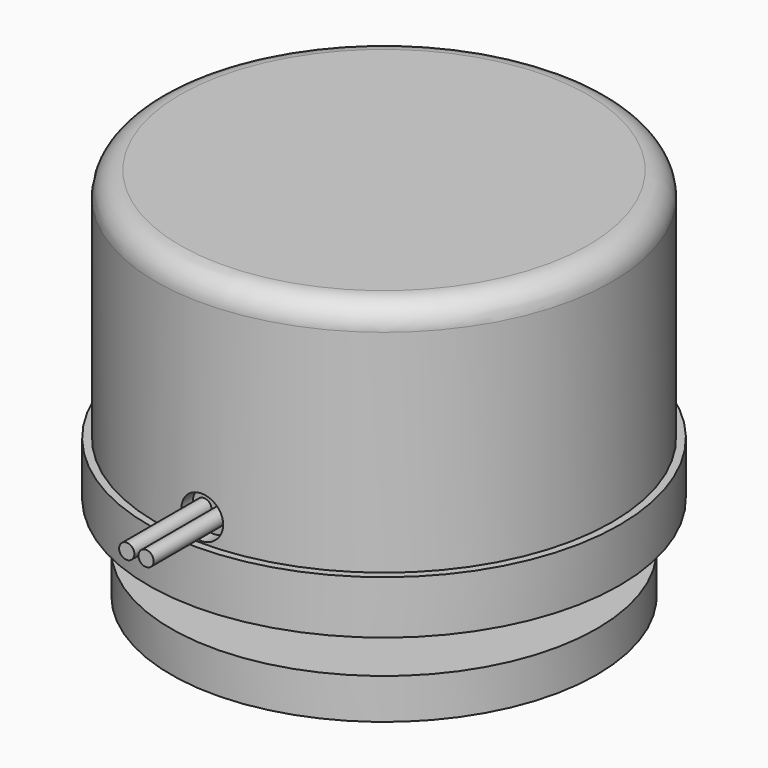
from build123d import *

# Parameters (mm, degrees)
F0_R      = 15
F1_DEPTH  = 19
F2_R      = 1.5875
F3_R      = 15.5
F3_R_2    = 15
F4_DEPTH  = 3.5
F5_R      = 14.5
F6_DEPTH  = 2
F8_DEPTH  = 3
F9_R      = 5.75
F10_DEPTH = 2
F11_R     = 14
F11_R_2   = 5.75
F12_DEPTH = 2.66
F14_START = 14
F13_R     = 1.375
F14_DEPTH = 11.4
F15_R     = 0.5
F16_DEPTH = 6.35


with BuildPart() as f1:
    # F0 (on Top) → F1 (new body)
    with BuildSketch(Plane.XY):
        Circle(F0_R)
    extrude(amount=F1_DEPTH)

    # F2
    f2_edges = [f1.edges().sort_by_distance(p)[0] for p in [
        (-15, 0, 19),
    ]]
    fillet(f2_edges, radius=F2_R)

    # F3 (on face) → F4 (join)
    with BuildSketch(Plane(origin=(0, 0, 0), x_dir=(1, 0, 0), z_dir=(0, 0, -1))):
        Circle(F3_R)
        Circle(F3_R_2, mode=Mode.SUBTRACT)
    extrude(amount=-F4_DEPTH)

    # F5 (on face) → F6 (cut)
    with BuildSketch(Plane(origin=(0, 0, 0), x_dir=(1, 0, 0), z_dir=(0, 0, -1))):
        Circle(F5_R)
    extrude(amount=-F6_DEPTH, mode=Mode.SUBTRACT)

    # F7 (on face) → F8 (join)
    with BuildSketch(Plane(origin=(0, 0, 2), x_dir=(1, 0, 0), z_dir=(0, 0, -1))):
        Polygon((0, 4.4744645862), (-3.875, 2.2372322931), (-3.875, -2.2372322931), (0, -4.4744645862), (3.875, -2.2372322931), (3.875, 2.2372322931), align=None)
    extrude(amount=F8_DEPTH)

    # F9 (on face) → F10 (join)
    with BuildSketch(Plane(origin=(0, 0, -1), x_dir=(1, 0, 0), z_dir=(0, 0, -1))):
        Circle(F9_R)
        Polygon((-3.875, 2.2372322931), (0, 4.4744645862), (3.875, 2.2372322931), (3.875, -2.2372322931), (0, -4.4744645862), (-3.875, -2.2372322931), align=None, mode=Mode.SUBTRACT)
        Polygon((3.875, 2.2372322931), (0, 4.4744645862), (-3.875, 2.2372322931), (-3.875, -2.2372322931), (0, -4.4744645862), (3.875, -2.2372322931), align=None)
    extrude(amount=F10_DEPTH)

    # F11 (on face) → F12 (join)
    with BuildSketch(Plane(origin=(0, 0, -3), x_dir=(1, 0, 0), z_dir=(0, 0, -1))):
        Circle(F11_R)
        Circle(F11_R_2, mode=Mode.SUBTRACT)
        Circle(F11_R_2)
    extrude(amount=F12_DEPTH)

    # F13 (on Front) → F14 (cut)
    with BuildSketch(Plane.XZ.offset(F14_START)):
        with Locations((0, 5)):
            Circle(F13_R)
    extrude(amount=F14_DEPTH, mode=Mode.SUBTRACT)

    # F15 (on face) → F16 (join)
    with BuildSketch(Plane.XZ.offset(14)):
        with Locations((-0.635, 5)):
            Circle(F15_R)
        with Locations((0.635, 5)):
            Circle(F15_R)
    extrude(amount=F16_DEPTH)


solid = f1.part
